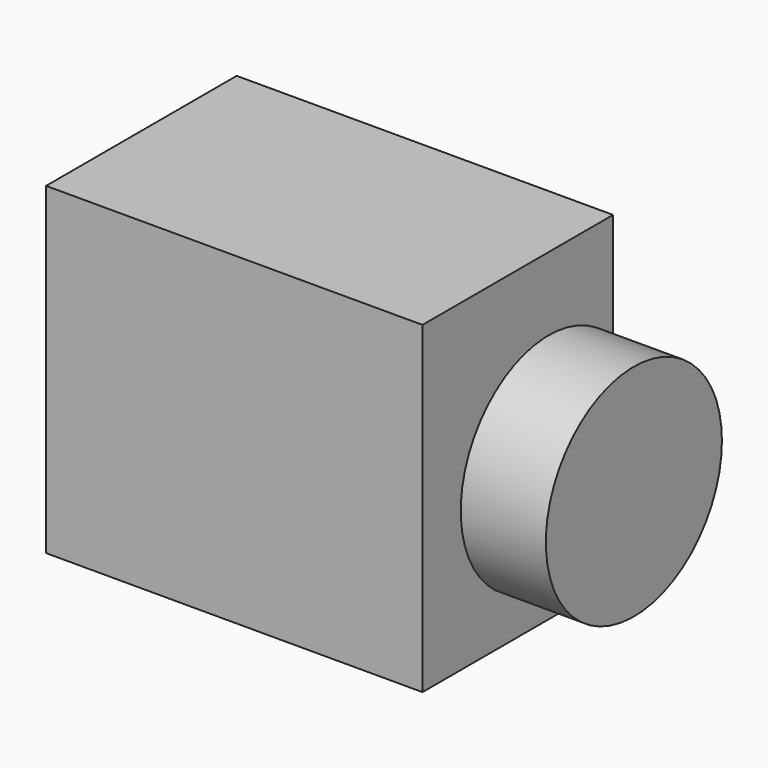
from build123d import *

# Parameters (mm, degrees)
F0_W      = 50
F0_H      = 70
F1_DEPTH  = 95
F1_FACE_W = 70
F1_FACE_H = 95
F2_DEPTH  = 60.59026
F3_R      = 32.333924
F4_DEPTH  = 25
F5_R      = 16.327399
F6_DEPTH  = 10


with BuildPart() as f1:
    # F0 (on Top) → F1 (new body)
    with BuildSketch(Plane.XY):
        with Locations((25, 35)):
            Rectangle(F0_W, F0_H)
    extrude(amount=F1_DEPTH)

    # F1_face (on face) → F2 (join)
    with BuildSketch(Plane(origin=(50, 35, 47.5), x_dir=(0, 1, 0), z_dir=(1, 0, 0))):
        Rectangle(F1_FACE_W, F1_FACE_H)
    extrude(amount=F2_DEPTH)

    # F3 (on face) → F4 (join)
    with BuildSketch(Plane.YZ.offset(110.59026)):
        with Locations((46.391159, 41.153282)):
            Circle(F3_R)
    extrude(amount=F4_DEPTH)

    # F5 (on face) → F6 (join)
    with BuildSketch(Plane.YZ.offset(135.59026)):
        with Locations((46.391159, 41.153282)):
            Circle(F5_R)
        with Locations((46.391159, 41.153282)):
            Circle(F5_R)
    extrude(amount=-F6_DEPTH)


solid = f1.part
